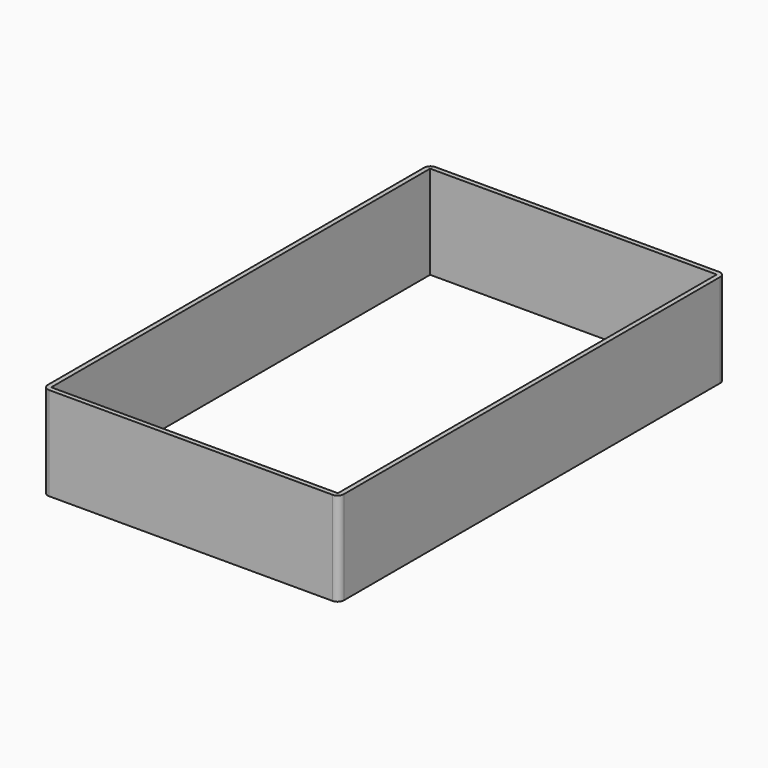
from build123d import *

# Parameters (mm, degrees)
F1_W     = 95
F1_H     = 155
F1_W_2   = 92
F1_H_2   = 152
F2_DEPTH = 30
F3_R     = 2


with BuildPart() as f2:
    # F1 (on face) → F2 (new body)
    with BuildSketch(Plane.XY):
        Rectangle(F1_W, F1_H)
        Rectangle(F1_W_2, F1_H_2, mode=Mode.SUBTRACT)
    extrude(amount=F2_DEPTH)

    # F3
    f3_edges = [f2.edges().sort_by_distance(p)[0] for p in [
        (47.5, 77.5, 15),
        (-47.5, 77.5, 15),
        (-47.5, -77.5, 15),
        (47.5, -77.5, 15),
    ]]
    fillet(f3_edges, radius=F3_R)


solid = f2.part
